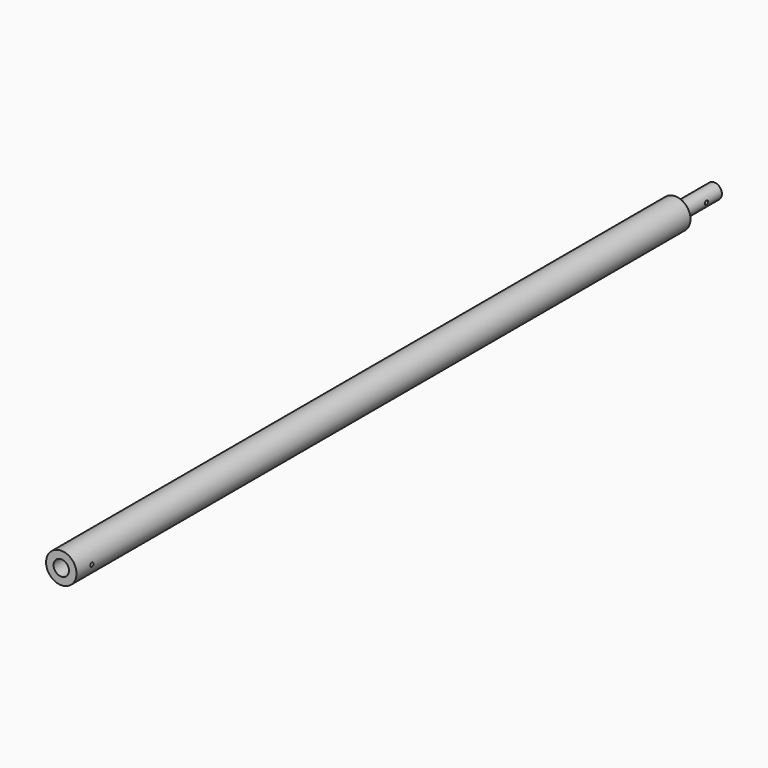
from build123d import *

# Parameters (mm, degrees)
F0_R     = 15.875
F1_DEPTH = 850.9
F2_R     = 8.001
F3_DEPTH = 53.34
F4_R     = 2.0574
F5_DEPTH = 25.4
F6_R     = 15.875
F6_R_2   = 7.9883
F7_DEPTH = 50.8
F8_R     = 2.54
F9_DEPTH = 12.7


with BuildPart() as f1:
    # F0 (on Front) → F1 (new body)
    with BuildSketch(Plane.XZ):
        Circle(F0_R)
    extrude(amount=F1_DEPTH)

    # F2 (on face) → F3 (cut)
    with BuildSketch(Plane.XZ.offset(850.9)):
        Circle(F2_R)
    extrude(amount=-F3_DEPTH, mode=Mode.SUBTRACT)

    # F4 (on Right) → F5 (cut, symmetric)
    with BuildSketch(Plane.YZ):
        with Locations((-830.834, 0)):
            Circle(F4_R)
        with Locations((-20.066, 0)):
            Circle(F4_R)
    extrude(amount=F5_DEPTH, both=True, mode=Mode.SUBTRACT)

    # F6 (on face) → F7 (cut)
    with BuildSketch(Plane(origin=(0, 0, 0), x_dir=(-1, 0, 0), z_dir=(0, 1, 0))):
        Circle(F6_R)
        Circle(F6_R_2, mode=Mode.SUBTRACT)
    extrude(amount=-F7_DEPTH, mode=Mode.SUBTRACT)

    # F8 (on face) → F9 (cut)
    with BuildSketch(Plane(origin=(0, 0, 0), x_dir=(-1, 0, 0), z_dir=(0, 1, 0))):
        Circle(F8_R)
    extrude(amount=-F9_DEPTH, mode=Mode.SUBTRACT)


solid = f1.part
